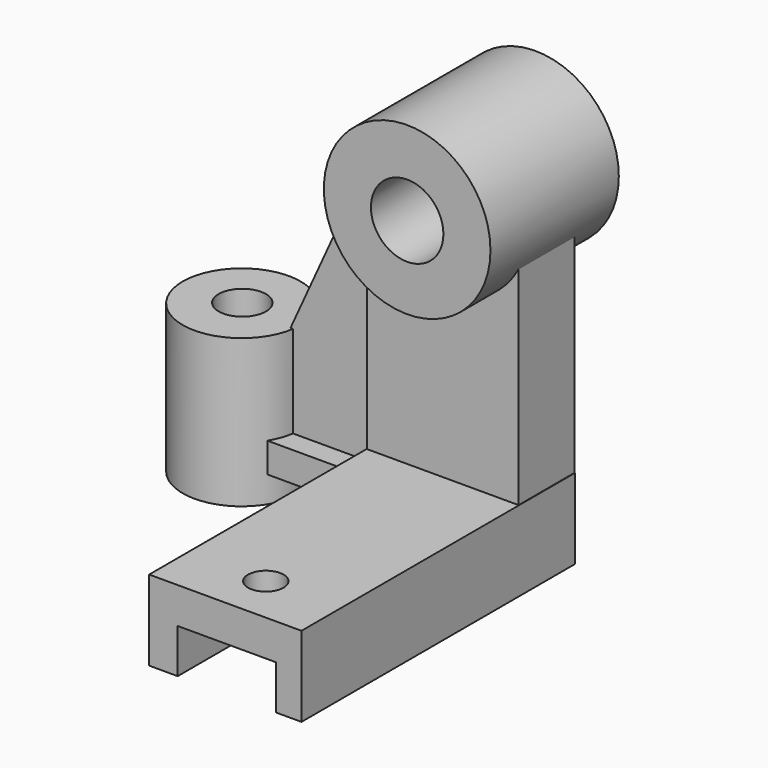
from build123d import *

# Parameters (mm, degrees)
SKETCH_W        = 24.681526
SKETCH_H        = 55.414013
PAD_DEPTH       = 13
SKETCH001_W     = 15.923566
SKETCH001_H     = 11.305732
POCKET_DEPTH    = 55.415013
SKETCH002_R     = 2.87618
POCKET001_DEPTH = 13.001
SKETCH003_W     = 24.574786
SKETCH003_H     = 11.309867
PAD001_DEPTH    = 35
SKETCH004_W     = 11.522993
SKETCH004_H     = 4.823732
PAD002_DEPTH    = 22
PAD003_DEPTH    = 2
SKETCH006_R     = 9.566685
PAD004_DEPTH    = 24
SKETCH007_R     = 3.828287
POCKET002_DEPTH = 24.001
SKETCH008_R     = 13.5012954455
PAD005_DEPTH    = 13
SKETCH009_R     = 5.871137
POCKET003_DEPTH = 26.001


with BuildPart() as part:
    # Sketch → Pad (new body)
    with BuildSketch(Plane.XY):
        with Locations((-0.318477, 1.2738855)):
            Rectangle(SKETCH_W, SKETCH_H)
    extrude(amount=PAD_DEPTH)

    # Sketch001 (on Face3 of Pad) → Pocket (cut, through all)
    with BuildSketch(Plane.XZ.offset(26.433121)):
        with Locations((-0.079613, 1.512745)):
            Rectangle(SKETCH001_W, SKETCH001_H)
    extrude(amount=-POCKET_DEPTH, mode=Mode.SUBTRACT)

    # Sketch002 (on Face8 of Pocket) → Pocket001 (cut, through all)
    with BuildSketch(Plane.XY.offset(13)):
        with Locations((0, -18.630573)):
            Circle(SKETCH002_R)
    extrude(amount=-POCKET001_DEPTH, mode=Mode.SUBTRACT)

    # Sketch003 (on Face8 of Pocket001) → Pad001 (join)
    with BuildSketch(Plane.XY.offset(13)):
        with Locations((-0.333364, 23.2805385)):
            Rectangle(SKETCH003_W, SKETCH003_H)
    extrude(amount=PAD001_DEPTH)

    # Sketch004 (on Face9 of Pad001) → Pad002 (join)
    with BuildSketch(Plane(origin=(-12.65924, 0, 0), x_dir=(0, -1, 0), z_dir=(-1, 0, 0))):
        with Locations((-23.1981075, 6.669861)):
            Rectangle(SKETCH004_W, SKETCH004_H)
    extrude(amount=PAD002_DEPTH)

    # Sketch005 → Pad003 (join, symmetric)
    with BuildSketch(Plane.XZ.offset(-23)):
        Polygon((-34.666348, 8.690443), (-12.38179, 57.716461), (-12.38179, 8.690443), align=None)
    extrude(amount=PAD003_DEPTH, both=True)

    # Sketch006 → Pad004 (join)
    with BuildSketch(Plane.XY):
        with Locations((-36.756073, 22.431417)):
            Circle(SKETCH006_R)
    extrude(amount=PAD004_DEPTH)

    # Sketch007 (on Face27 of Pad004) → Pocket002 (cut, through all)
    with BuildSketch(Plane.XY.offset(24)):
        with Locations((-36.786556, 22.589872)):
            Circle(SKETCH007_R)
    extrude(amount=-POCKET002_DEPTH, mode=Mode.SUBTRACT)

    # Sketch008 → Pad005 (join, symmetric)
    with BuildSketch(Plane.XZ.offset(-23)):
        with Locations((0, 52.938587)):
            Circle(SKETCH008_R)
    extrude(amount=PAD005_DEPTH, both=True)

    # Sketch009 (on Face31 of Pad005) → Pocket003 (cut, through all)
    with BuildSketch(Plane.XZ.offset(-10)):
        with Locations((0, 52.790291)):
            Circle(SKETCH009_R)
    extrude(amount=-POCKET003_DEPTH, mode=Mode.SUBTRACT)


solid = part.part
